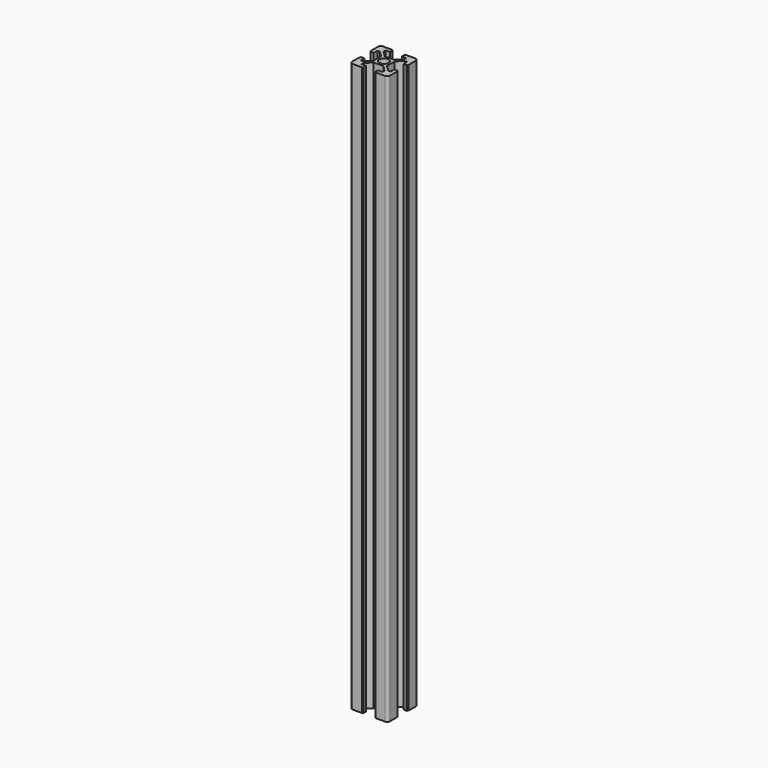
from build123d import *

# Parameters (mm, degrees)
SKETCH_R  = 2.5
PAD_DEPTH = 300
FILLET_R  = 1.5


with BuildPart() as part:
    # Sketch → Pad (new body)
    with BuildSketch(Plane.XY):
        Polygon((-3.6, 2.53934), (-3.6, -2.53934), (-6.56066, -5.5), (-7.9, -5.5), (-7.9, -3.1), (-9.5, -3.1), (-10, -3.6), (-10, -10), (-3.6, -10), (-3.1, -9.5), (-3.1, -7.9), (-5.5, -7.9), (-5.5, -6.56066), (-2.53934, -3.6), (2.53934, -3.6), (5.5, -6.56066), (5.5, -7.9), (3.1, -7.9), (3.1, -9.5), (3.6, -10), (10, -10), (10, -3.6), (9.5, -3.1), (7.9, -3.1), (7.9, -5.5), (6.56066, -5.5), (3.6, -2.53934), (3.6, 2.53934), (6.56066, 5.5), (7.899992, 5.5), (7.899998, 3.1), (9.5, 3.1), (10, 3.6), (10, 10), (3.6, 10), (3.1, 9.5), (3.1, 7.9), (5.5, 7.9), (5.5, 6.56066), (2.53934, 3.6), (-2.53934, 3.6), (-5.5, 6.56066), (-5.5, 7.9), (-3.1, 7.9), (-3.1, 9.5), (-3.6, 10), (-10, 10), (-10, 3.6), (-9.5, 3.1), (-7.9, 3.1), (-7.9, 5.5), (-6.56066, 5.5), align=None)
        Circle(SKETCH_R, mode=Mode.SUBTRACT)
    extrude(amount=PAD_DEPTH)

    # Fillet
    fillet_edges = [part.edges().sort_by_distance(p)[0] for p in [
        (-10, -10, 150),
        (10, -10, 150),
        (10, 10, 150),
        (-10, 10, 150),
    ]]
    fillet(fillet_edges, radius=FILLET_R)


solid = part.part
